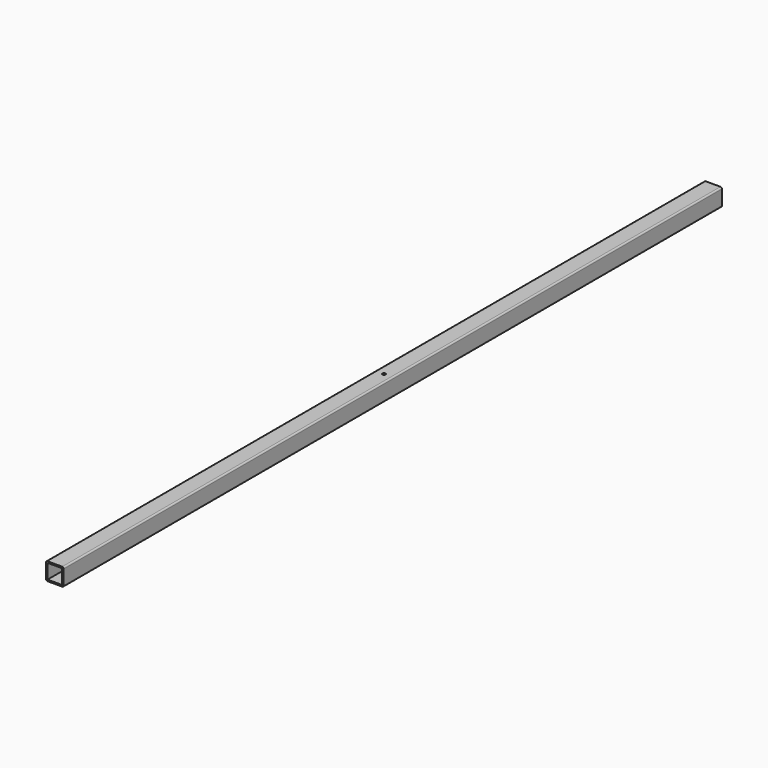
from build123d import *

# Parameters (mm, degrees)
F0_W     = 38.1
F0_H     = 38.1
F0_W_2   = 31.75
F0_H_2   = 31.75
F1_DEPTH = 1778
F2_R     = 3.175
F4_DEPTH = 38.101


with BuildPart() as f1:
    # F0 (on Front) → F1 (new body)
    with BuildSketch(Plane.XZ):
        Rectangle(F0_W, F0_H)
        Rectangle(F0_W_2, F0_H_2, mode=Mode.SUBTRACT)
    extrude(amount=F1_DEPTH)

    # F2
    f2_edges = [f1.edges().sort_by_distance(p)[0] for p in [
        (19.05, -889, 19.05),
        (19.05, -889, -19.05),
        (-19.05, -889, -19.05),
        (-19.05, -889, 19.05),
    ]]
    fillet(f2_edges, radius=F2_R)

    # F3 (on face) → F4 (cut, through all)
    with BuildSketch(Plane.XY.offset(19.05)):
        with BuildLine():
            ThreePointArc((0, -885.825), (-2.245064, -891.245064), (3.175, -889))
            ThreePointArc((3.175, -889), (2.245064, -886.754936), (0, -885.825))
        make_face()
    extrude(amount=-F4_DEPTH, mode=Mode.SUBTRACT)


solid = f1.part
